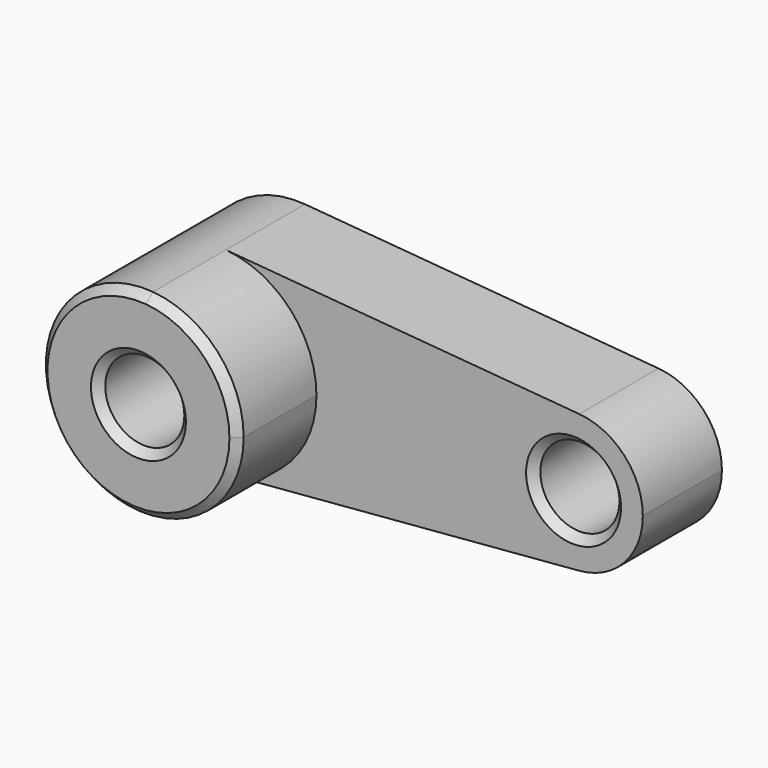
from build123d import *

# Parameters (mm, degrees)
F0_R     = 10
F1_DEPTH = 25
F2_DEPTH = 50
F3_SIZE  = 2
F4_W     = 42.542353
F4_H     = 60.176491
F5_DEPTH = 25


with BuildPart() as f1:
    # F0 (on Front) → F1 (new body)
    with BuildSketch(Plane.XZ):
        with BuildLine():
            ThreePointArc((2.083333, -24.913043), (18.399502, -16.92508), (25, 0))
            ThreePointArc((25, 0), (18.399502, 16.92508), (2.083333, 24.913043))
            ThreePointArc((2.083333, 24.913043), (-25, 0), (2.083333, -24.913043))
        make_face()
        Circle(F0_R, mode=Mode.SUBTRACT)
        with BuildLine():
            ThreePointArc((2.083333, 24.913043), (18.399502, 16.92508), (25, 0))
            ThreePointArc((25, 0), (18.399502, -16.92508), (2.083333, -24.913043))
            Line((2.083333, -24.913043), (91.458333, -17.43913))
            ThreePointArc((91.458333, -17.43913), (72.5, 0), (91.458333, 17.43913))
            Line((91.458333, 17.43913), (2.083333, 24.913043))
        make_face()
        with BuildLine():
            ThreePointArc((107.5, 0), (102.879651, 11.847556), (91.458333, 17.43913))
            ThreePointArc((91.458333, 17.43913), (72.5, 0), (91.458333, -17.43913))
            ThreePointArc((91.458333, -17.43913), (102.879651, -11.847556), (107.5, 0))
        make_face()
        with Locations((90, 0)):
            Circle(F0_R, mode=Mode.SUBTRACT)
    extrude(amount=F1_DEPTH)

    # F0 (on Front) → F2 (join)
    with BuildSketch(Plane.XZ):
        with BuildLine():
            ThreePointArc((2.083333, -24.913043), (18.399502, -16.92508), (25, 0))
            ThreePointArc((25, 0), (18.399502, 16.92508), (2.083333, 24.913043))
            ThreePointArc((2.083333, 24.913043), (-25, 0), (2.083333, -24.913043))
        make_face()
        Circle(F0_R, mode=Mode.SUBTRACT)
    extrude(amount=F2_DEPTH)

    # F3
    f3_edges = [f1.edges().sort_by_distance(p)[0] for p in [
        (-2.083333, -50, 24.913043),
        (-10, -50, 0),
        (80, -25, 0),
    ]]
    chamfer(f3_edges, length=F3_SIZE)

    # F4 (on Top) → F5 (cut)
    with BuildSketch(Plane.XY):
        with Locations((40.295548, 15.942938)):
            Rectangle(F4_W, F4_H)
    extrude(amount=-F5_DEPTH, mode=Mode.SUBTRACT)


solid = f1.part
